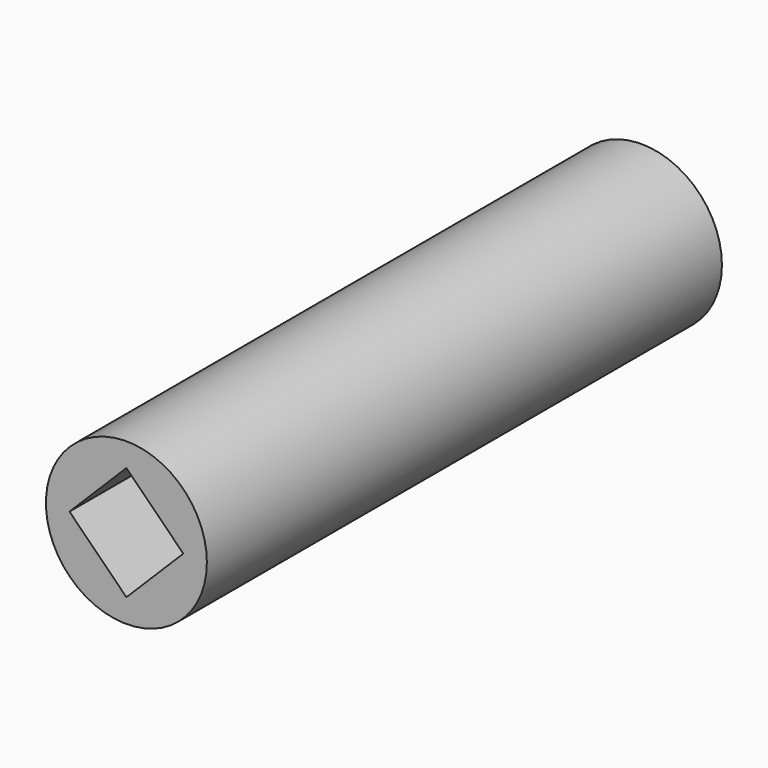
from build123d import *

# Parameters (mm, degrees)
F0_R     = 12.7
F1_DEPTH = 101.6
F3_DEPTH = 27.94
F5_DEPTH = 27.94
F7_R     = 9.525
F8_DEPTH = 45.72


with BuildPart() as f1:
    # F0 (on Front) → F1 (new body)
    with BuildSketch(Plane.XZ):
        Circle(F0_R)
    extrude(amount=F1_DEPTH)

    # F2 (on face) → F3 (cut)
    with BuildSketch(Plane.XZ.offset(101.6)):
        Polygon((0, -8.980256), (8.980256, 0), (0, 8.980256), (-8.980256, 0), align=None)
    extrude(amount=-F3_DEPTH, mode=Mode.SUBTRACT)

    # F4 (on face) → F5 (cut)
    with BuildSketch(Plane(origin=(0, 0, 0), x_dir=(-1, 0, 0), z_dir=(0, 1, 0))):
        Polygon((0, -8.980256), (8.980256, 0), (0, 8.980256), (-8.980256, 0), align=None)
    extrude(amount=-F5_DEPTH, mode=Mode.SUBTRACT)

    # F7 (on offset) → F8 (cut)
    with BuildSketch(Plane.XZ.offset(27.94)):
        Circle(F7_R)
    extrude(amount=F8_DEPTH, mode=Mode.SUBTRACT)


solid = f1.part
